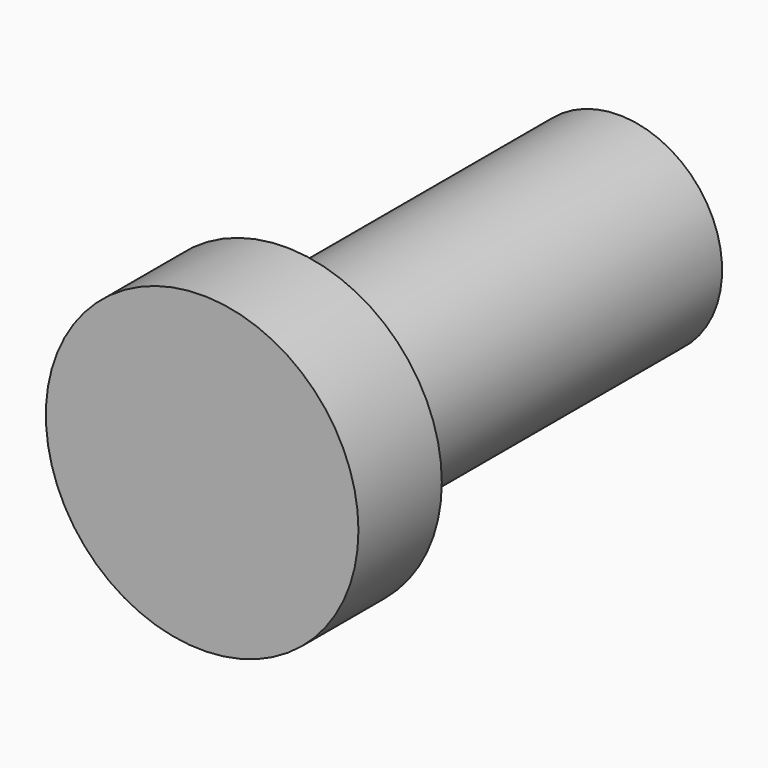
from build123d import *

# Parameters (mm, degrees)
F0_R     = 19.05
F1_DEPTH = 12.7
F2_R     = 12.573
F3_DEPTH = 50.8


with BuildPart() as f1:
    # F0 (on Front) → F1 (new body)
    with BuildSketch(Plane.XZ):
        Circle(F0_R)
    extrude(amount=F1_DEPTH)

    # F2 (on face) → F3 (join)
    with BuildSketch(Plane(origin=(0, 0, 0), x_dir=(-1, 0, 0), z_dir=(0, 1, 0))):
        Circle(F2_R)
    extrude(amount=F3_DEPTH)

    # F4 (on Right) → F5 (revolve, cut)
    with BuildSketch(Plane.YZ):
        with BuildLine():
            Line((57.15, 0), (57.15, 12.7))
            ThreePointArc((57.15, 12.7), (48.169744, 8.980256), (44.45, 0))
            Line((44.45, 0), (57.15, 0))
        make_face()
    revolve(axis=Axis((0, 50.8, 0), (0, -1, 0)), mode=Mode.SUBTRACT)


solid = f1.part
